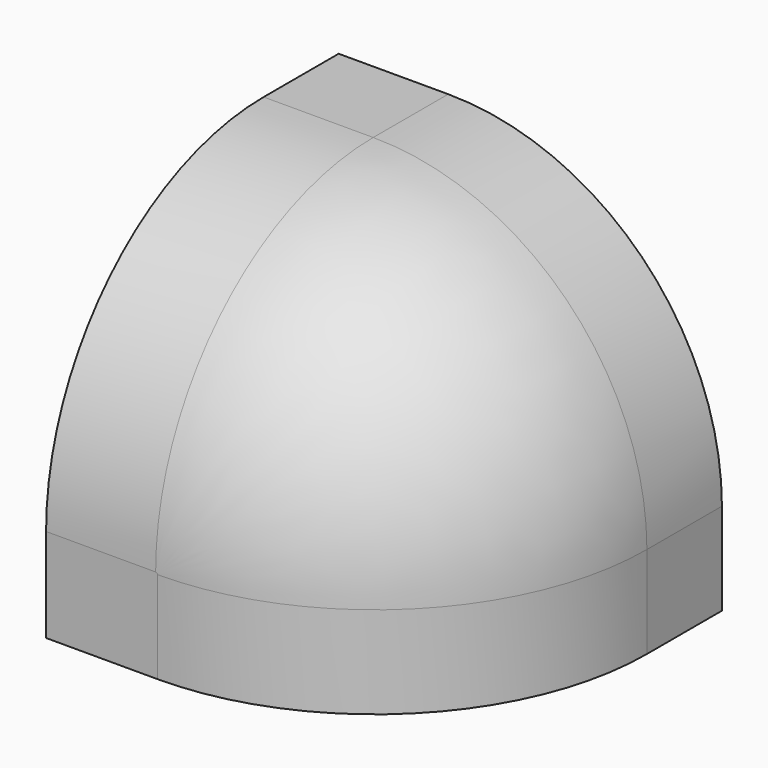
from build123d import *

# Parameters (mm, degrees)
F0_W     = 127
F0_H     = 127
F1_DEPTH = 133.096
F2_R     = 95.0475879506
F3_R     = 94.4343777058


with BuildPart() as f1:
    # F0 (on Right) → F1 (new body)
    with BuildSketch(Plane.YZ):
        with Locations((63.5, 63.5)):
            Rectangle(F0_W, F0_H)
    extrude(amount=F1_DEPTH)

    # F2
    f2_edges = [f1.edges().sort_by_distance(p)[0] for p in [
        (133.096, 63.5, 127),
    ]]
    fillet(f2_edges, radius=F2_R)

    # F3
    f3_edges = [f1.edges().sort_by_distance(p)[0] for p in [
        (105.257206, 0, 99.161206),
    ]]
    fillet(f3_edges, radius=F3_R)


solid = f1.part
